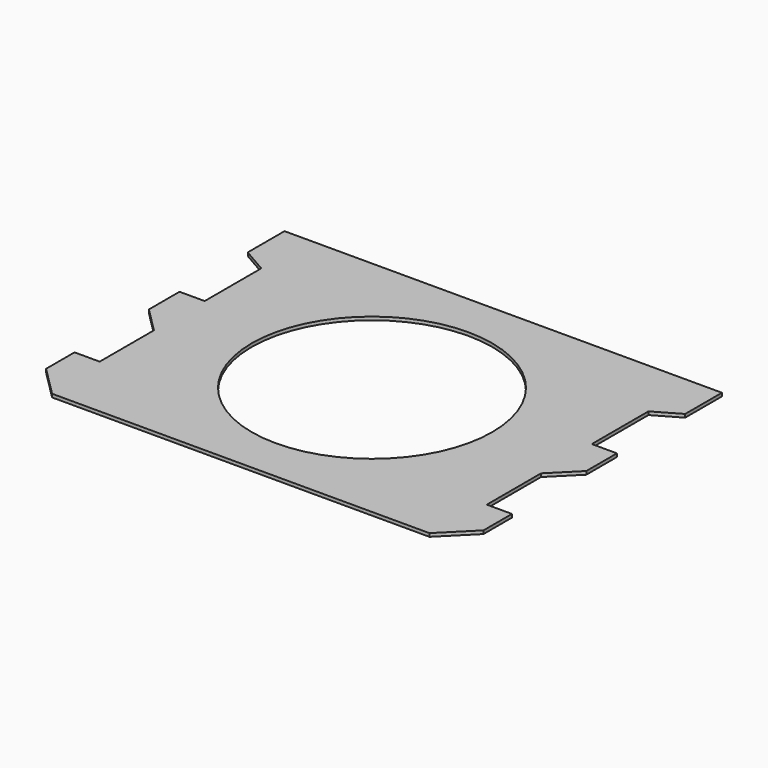
from build123d import *

# Parameters (mm, degrees)
F0_R     = 110
F1_DEPTH = 3


with BuildPart() as f1:
    # F0 (on Top) → F1 (new body)
    with BuildSketch(Plane.XY):
        Polygon((-172.525853, -150), (172.525853, -150), (200, -122.525853), (200, -90), (177, -90), (177, -28), (200, -5), (200, 30), (177, 30), (177, 94.720944), (200, 108), (200, 150), (-200, 150), (-200, 108), (-177, 94.720944), (-177, 30), (-200, 30), (-200, -5), (-177, -28), (-177, -90), (-200, -90), (-200, -122.525853), align=None)
        Circle(F0_R, mode=Mode.SUBTRACT)
    extrude(amount=F1_DEPTH)


solid = f1.part
